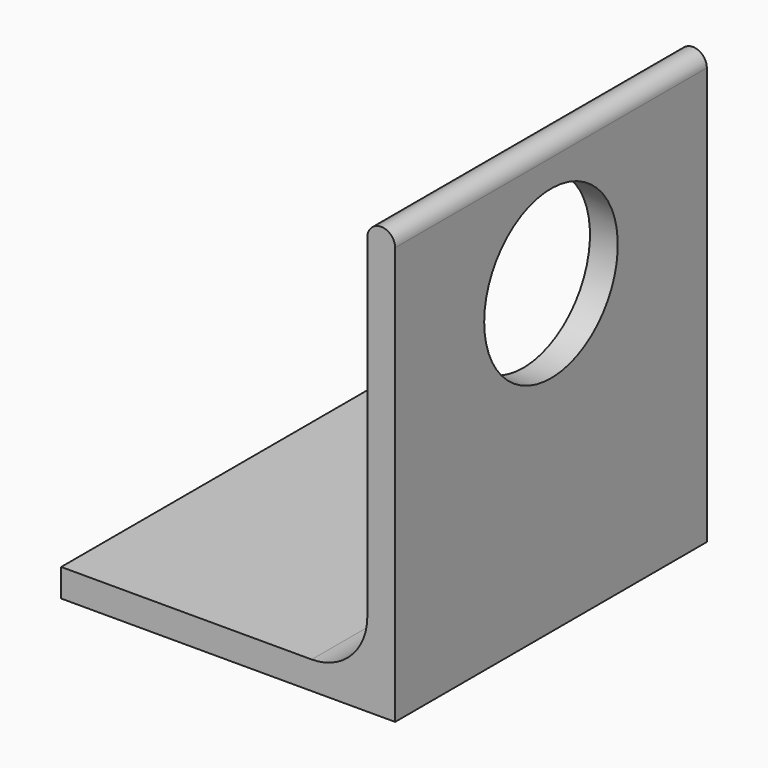
from build123d import *

# Parameters (mm, degrees)
F1_DEPTH = 44.45
F3_D     = 19.05
F3_DEPTH = 25.4


with BuildPart() as f1:
    # F0 (on Front) → F1 (new body)
    with BuildSketch(Plane.XZ):
        with BuildLine():
            Line((28.575, 0), (0, 0))
            Line((0, 0), (0, -3.175))
            Line((0, -3.175), (34.925, -3.175))
            Line((34.925, -3.175), (38.1, -3.175))
            Line((38.1, -3.175), (38.1, 44.45))
            ThreePointArc((38.1, 44.45), (36.5125, 46.0375), (34.925, 44.45))
            Line((34.925, 44.45), (34.925, 6.35))
            ThreePointArc((34.925, 6.35), (33.065128, 1.859872), (28.575, 0))
        make_face()
    extrude(amount=F1_DEPTH)

    # F3
    with Locations(Plane.YZ.offset(38.1)):
        with Locations((-22.225, 31.828932)):
            Hole(F3_D / 2, depth=F3_DEPTH)


solid = f1.part
